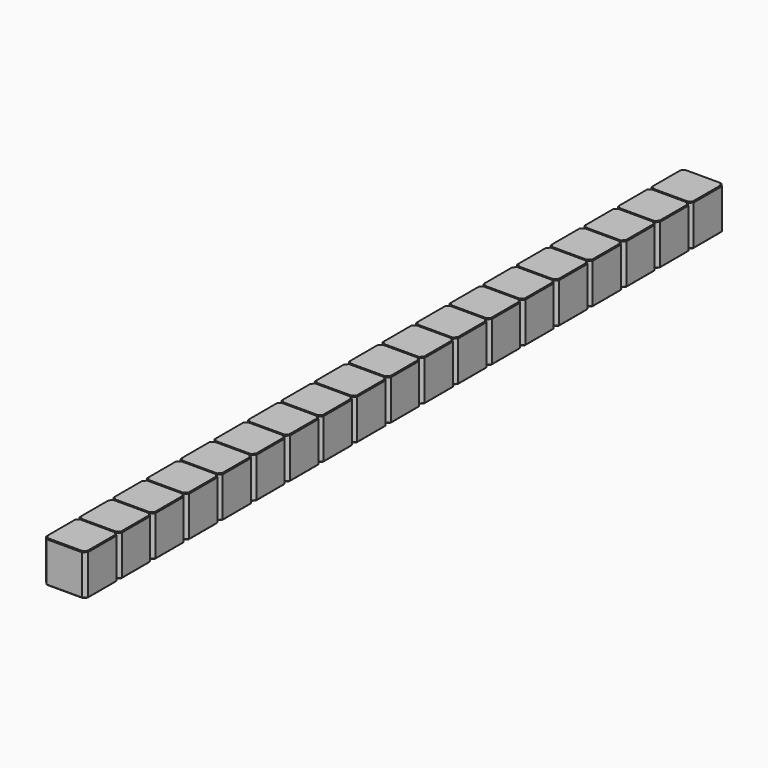
from build123d import *

# Parameters (mm, degrees)
SKETCH209_W      = 2.54
SKETCH209_H      = 2.54
PAD064_DEPTH     = 2.5
CHAMFER017_SIZE  = 0.2
CHAMFER016_SIZE  = 0.05
ARRAY002_Y_COUNT = 19
ARRAY002_Y_PITCH = 2.54


with BuildPart() as array002:
    # Sketch209 → Pad064 (new body)
    with BuildSketch(Plane.XY):
        Rectangle(SKETCH209_W, SKETCH209_H)
    extrude(amount=PAD064_DEPTH)

    # Chamfer017
    chamfer017_edges = [array002.edges().sort_by_distance(p)[0] for p in [
        (1.27, -1.27, 1.25),
        (-1.27, -1.27, 1.25),
        (1.27, 1.27, 1.25),
        (-1.27, 1.27, 1.25),
    ]]
    chamfer(chamfer017_edges, length=CHAMFER017_SIZE)

    # Chamfer016
    chamfer016_edges = [array002.edges().sort_by_distance(p)[0] for p in [
        (0, -1.27, 2.5),
        (-1.17, -1.17, 2.5),
        (1.17, -1.17, 2.5),
        (-1.27, 0, 2.5),
        (1.27, 0, 2.5),
        (-1.17, 1.17, 2.5),
        (1.17, 1.17, 2.5),
        (0, 1.27, 2.5),
        (0, -1.27, 0),
        (-1.17, -1.17, 0),
        (1.17, -1.17, 0),
        (-1.27, 0, 0),
        (1.27, 0, 0),
        (-1.17, 1.17, 0),
        (1.17, 1.17, 0),
        (0, 1.27, 0),
    ]]
    chamfer(chamfer016_edges, length=CHAMFER016_SIZE)


with BuildPart() as array002_copy1:
    # Array002 Y: instance of Array002
    add(array002.part.moved(Location(Vector(0, 1, 0) * (1 * ARRAY002_Y_PITCH))))


with BuildPart() as array002_copy2:
    # Array002 Y: instance of Array002
    add(array002.part.moved(Location(Vector(0, 1, 0) * (2 * ARRAY002_Y_PITCH))))


with BuildPart() as array002_copy3:
    # Array002 Y: instance of Array002
    add(array002.part.moved(Location(Vector(0, 1, 0) * (3 * ARRAY002_Y_PITCH))))


with BuildPart() as array002_copy4:
    # Array002 Y: instance of Array002
    add(array002.part.moved(Location(Vector(0, 1, 0) * (4 * ARRAY002_Y_PITCH))))


with BuildPart() as array002_copy5:
    # Array002 Y: instance of Array002
    add(array002.part.moved(Location(Vector(0, 1, 0) * (5 * ARRAY002_Y_PITCH))))


with BuildPart() as array002_copy6:
    # Array002 Y: instance of Array002
    add(array002.part.moved(Location(Vector(0, 1, 0) * (6 * ARRAY002_Y_PITCH))))


with BuildPart() as array002_copy7:
    # Array002 Y: instance of Array002
    add(array002.part.moved(Location(Vector(0, 1, 0) * (7 * ARRAY002_Y_PITCH))))


with BuildPart() as array002_copy8:
    # Array002 Y: instance of Array002
    add(array002.part.moved(Location(Vector(0, 1, 0) * (8 * ARRAY002_Y_PITCH))))


with BuildPart() as array002_copy9:
    # Array002 Y: instance of Array002
    add(array002.part.moved(Location(Vector(0, 1, 0) * (9 * ARRAY002_Y_PITCH))))


with BuildPart() as array002_copy10:
    # Array002 Y: instance of Array002
    add(array002.part.moved(Location(Vector(0, 1, 0) * (10 * ARRAY002_Y_PITCH))))


with BuildPart() as array002_copy11:
    # Array002 Y: instance of Array002
    add(array002.part.moved(Location(Vector(0, 1, 0) * (11 * ARRAY002_Y_PITCH))))


with BuildPart() as array002_copy12:
    # Array002 Y: instance of Array002
    add(array002.part.moved(Location(Vector(0, 1, 0) * (12 * ARRAY002_Y_PITCH))))


with BuildPart() as array002_copy13:
    # Array002 Y: instance of Array002
    add(array002.part.moved(Location(Vector(0, 1, 0) * (13 * ARRAY002_Y_PITCH))))


with BuildPart() as array002_copy14:
    # Array002 Y: instance of Array002
    add(array002.part.moved(Location(Vector(0, 1, 0) * (14 * ARRAY002_Y_PITCH))))


with BuildPart() as array002_copy15:
    # Array002 Y: instance of Array002
    add(array002.part.moved(Location(Vector(0, 1, 0) * (15 * ARRAY002_Y_PITCH))))


with BuildPart() as array002_copy16:
    # Array002 Y: instance of Array002
    add(array002.part.moved(Location(Vector(0, 1, 0) * (16 * ARRAY002_Y_PITCH))))


with BuildPart() as array002_copy17:
    # Array002 Y: instance of Array002
    add(array002.part.moved(Location(Vector(0, 1, 0) * (17 * ARRAY002_Y_PITCH))))


with BuildPart() as array002_copy18:
    # Array002 Y: instance of Array002
    add(array002.part.moved(Location(Vector(0, 1, 0) * (18 * ARRAY002_Y_PITCH))))


solid = Compound([array002.part, array002_copy1.part, array002_copy2.part, array002_copy3.part, array002_copy4.part, array002_copy5.part, array002_copy6.part, array002_copy7.part, array002_copy8.part, array002_copy9.part, array002_copy10.part, array002_copy11.part, array002_copy12.part, array002_copy13.part, array002_copy14.part, array002_copy15.part, array002_copy16.part, array002_copy17.part, array002_copy18.part])
